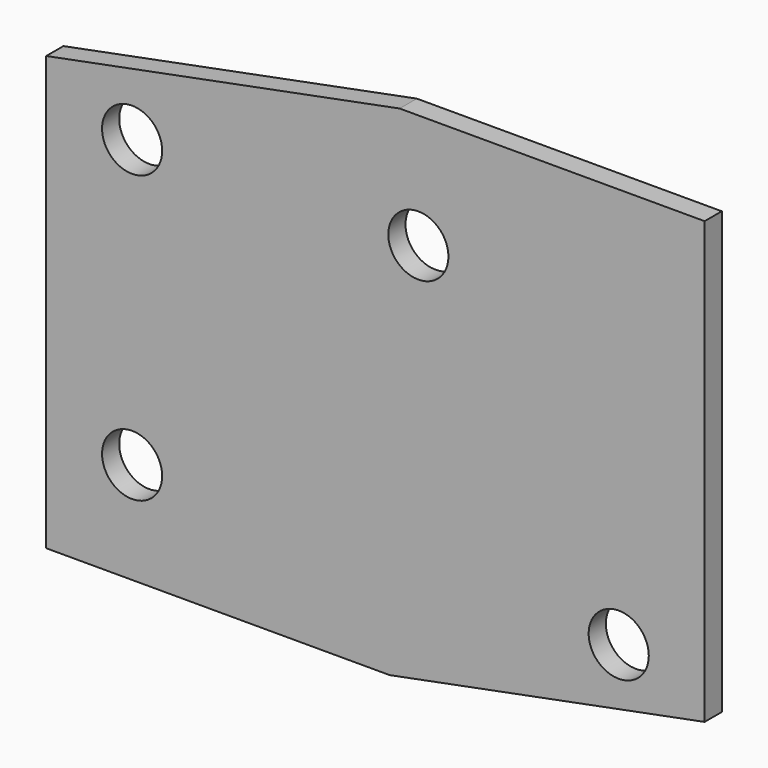
from build123d import *

# Parameters (mm, degrees)
F0_R     = 6.6675
F1_DEPTH = 4.7625


with BuildPart() as f1:
    # F0 (on Front) → F1 (new body)
    with BuildSketch(Plane.XZ):
        Polygon((-67.646997, 97.79), (-146.05, 82.55), (-146.05, -13.577465), (-69.85, -13.577465), (0, 0), (0, 97.79), align=None)
        with Locations((-127, 8.89)):
            Circle(F0_R, mode=Mode.SUBTRACT)
        with Locations((-19.05, 8.89)):
            Circle(F0_R, mode=Mode.SUBTRACT)
        with Locations((-127, 72.39)):
            Circle(F0_R, mode=Mode.SUBTRACT)
        with Locations((-63.5, 72.39)):
            Circle(F0_R, mode=Mode.SUBTRACT)
    extrude(amount=F1_DEPTH)


solid = f1.part
